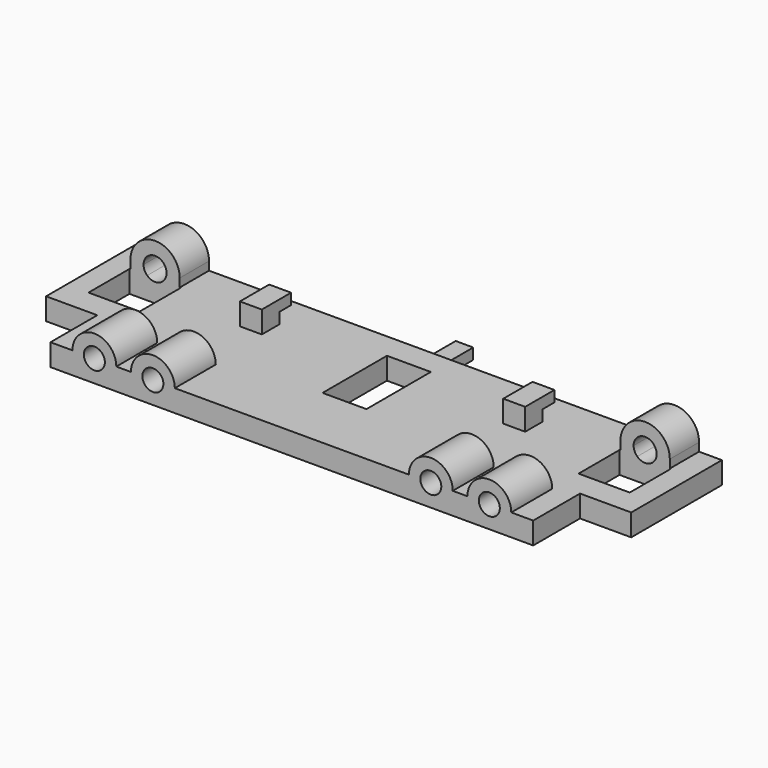
from build123d import *

# Parameters (mm, degrees)
F0_W      = 7
F0_H      = 7
F0_W_2    = 3
F0_H_2    = 5
F0_W_3    = 6
F0_H_3    = 11
F1_DEPTH  = 3
F2_DEPTH  = 6
F3_W      = 3
F3_H      = 1.5
F4_DEPTH  = 2
F5_W      = 3
F5_H      = 1.5
F6_DEPTH  = 2
F7_W      = 2.4
F7_H      = 1.5
F8_DEPTH  = 6
F10_DEPTH = 7
F11_R     = 1.435
F12_DEPTH = 4
F14_DEPTH = 5
F15_DEPTH = 5
F16_DEPTH = 5
F17_DEPTH = 5


with BuildPart() as f1:
    # F0 (on Top) → F1 (new body)
    with BuildSketch(Plane.XY):
        Polygon((40, 11.75), (-40, 11.75), (-40, -3.75), (-33, -3.75), (-33, -11.75), (33, -11.75), (33, -3.75), (40, -3.75), align=None)
        with Locations((-33.5, 3.25)):
            Rectangle(F0_W, F0_H, mode=Mode.SUBTRACT)
        with Locations((-18.002523, 6.25)):
            Rectangle(F0_W_2, F0_H_2, mode=Mode.SUBTRACT)
        with Locations((0, 2.75)):
            Rectangle(F0_W_3, F0_H_3, mode=Mode.SUBTRACT)
        with Locations((33.5, 3.25)):
            Rectangle(F0_W, F0_H, mode=Mode.SUBTRACT)
        with Locations((18.002523, 6.25)):
            Rectangle(F0_W_2, F0_H_2, mode=Mode.SUBTRACT)
    extrude(amount=F1_DEPTH)

    # F0 (on Top) → F2 (join)
    with BuildSketch(Plane.XY):
        with Locations((-18.002523, 6.25)):
            Rectangle(F0_W_2, F0_H_2)
        with Locations((18.002523, 6.25)):
            Rectangle(F0_W_2, F0_H_2)
    extrude(amount=F2_DEPTH)

    # F3 (on face) → F4 (cut)
    with BuildSketch(Plane(origin=(0, 8.75, 0), x_dir=(-1, 0, 0), z_dir=(0, 1, 0))):
        with Locations((-18.002523, 3.75)):
            Rectangle(F3_W, F3_H)
    extrude(amount=-F4_DEPTH, mode=Mode.SUBTRACT)

    # F5 (on face) → F6 (cut)
    with BuildSketch(Plane(origin=(0, 8.75, 0), x_dir=(-1, 0, 0), z_dir=(0, 1, 0))):
        with Locations((18.002523, 3.75)):
            Rectangle(F5_W, F5_H)
    extrude(amount=-F6_DEPTH, mode=Mode.SUBTRACT)

    # F7 (on face) → F8 (join)
    with BuildSketch(Plane(origin=(0, 11.75, 0), x_dir=(-1, 0, 0), z_dir=(0, 1, 0))):
        with Locations((0, 0.75)):
            Rectangle(F7_W, F7_H)
    extrude(amount=F8_DEPTH)

    # F9 (on face) → F10 (join)
    with BuildSketch(Plane.XZ.offset(11.75)):
        with BuildLine():
            Line((-30, 3), (-24, 3))
            ThreePointArc((-24, 3), (-27, 6), (-30, 3))
        make_face()
        with BuildLine():
            ThreePointArc((-16, 3), (-19, 6), (-22, 3))
            Line((-22, 3), (-16, 3))
        make_face()
        with BuildLine():
            ThreePointArc((22, 3), (19, 6), (16, 3))
            Line((16, 3), (22, 3))
        make_face()
        with BuildLine():
            ThreePointArc((30, 3), (27, 6), (24, 3))
            Line((24, 3), (30, 3))
        make_face()
    extrude(amount=-F10_DEPTH)

    # F11 (on face) → F12 (cut)
    with BuildSketch(Plane.XZ.offset(11.75)):
        with Locations((-27, 3)):
            Circle(F11_R)
        with Locations((-19, 3)):
            Circle(F11_R)
        with Locations((19, 3)):
            Circle(F11_R)
        with Locations((27, 3)):
            Circle(F11_R)
    extrude(amount=-F12_DEPTH, mode=Mode.SUBTRACT)

    # F13 (on face) → F14 (join)
    with BuildSketch(Plane(origin=(0, 11.75, 0), x_dir=(-1, 0, 0), z_dir=(0, 1, 0))):
        with BuildLine():
            Line((-30.125, 3), (-30.125, 4.15))
            ThreePointArc((-30.125, 4.15), (-33.508255, 7.52499), (-36.87496, 4.133489))
            Line((-36.87496, 4.133489), (-36.87496, 3))
            Line((-36.87496, 3), (-34.576162, 3))
            ThreePointArc((-34.576162, 3), (-34.126765, 5.594919), (-31.925, 4.15))
            ThreePointArc((-31.925, 4.15), (-32.055081, 3.523235), (-32.423838, 3))
            Line((-32.423838, 3), (-30.125, 3))
        make_face()
        with BuildLine():
            Line((-34.576162, 3), (-32.423838, 3))
            ThreePointArc((-32.423838, 3), (-32.055081, 3.523235), (-31.925, 4.15))
            ThreePointArc((-31.925, 4.15), (-34.126765, 5.594919), (-34.576162, 3))
        make_face()
    extrude(amount=-F14_DEPTH)

    # F13 (on face) → F15 (cut, through all)
    with BuildSketch(Plane(origin=(0, 11.75, 0), x_dir=(-1, 0, 0), z_dir=(0, 1, 0))):
        with BuildLine():
            Line((-34.576162, 3), (-32.423838, 3))
            ThreePointArc((-32.423838, 3), (-32.055081, 3.523235), (-31.925, 4.15))
            ThreePointArc((-31.925, 4.15), (-34.126765, 5.594919), (-34.576162, 3))
        make_face()
        with BuildLine():
            ThreePointArc((-34.576162, 3), (-33.5, 2.575), (-32.423838, 3))
            Line((-32.423838, 3), (-34.576162, 3))
        make_face()
    extrude(amount=-F15_DEPTH, mode=Mode.SUBTRACT)

    # F13 (on face) → F16 (join)
    with BuildSketch(Plane(origin=(0, 11.75, 0), x_dir=(-1, 0, 0), z_dir=(0, 1, 0))):
        with BuildLine():
            Line((30.125, 4.15), (30.125, 3))
            Line((30.125, 3), (32.423838, 3))
            ThreePointArc((32.423838, 3), (32.873235, 5.594919), (35.075, 4.15))
            ThreePointArc((35.075, 4.15), (34.944919, 3.523235), (34.576162, 3))
            Line((34.576162, 3), (36.87496, 3))
            Line((36.87496, 3), (36.87496, 4.133489))
            ThreePointArc((36.87496, 4.133489), (33.508255, 7.52499), (30.125, 4.15))
        make_face()
        with BuildLine():
            Line((34.576162, 3), (32.423838, 3))
            ThreePointArc((32.423838, 3), (33.5, 2.575), (34.576162, 3))
        make_face()
        with BuildLine():
            ThreePointArc((35.075, 4.15), (32.873235, 5.594919), (32.423838, 3))
            Line((32.423838, 3), (34.576162, 3))
            ThreePointArc((34.576162, 3), (34.944919, 3.523235), (35.075, 4.15))
        make_face()
    extrude(amount=-F16_DEPTH)

    # F13 (on face) → F17 (cut, through all)
    with BuildSketch(Plane(origin=(0, 11.75, 0), x_dir=(-1, 0, 0), z_dir=(0, 1, 0))):
        with BuildLine():
            ThreePointArc((35.075, 4.15), (32.873235, 5.594919), (32.423838, 3))
            Line((32.423838, 3), (34.576162, 3))
            ThreePointArc((34.576162, 3), (34.944919, 3.523235), (35.075, 4.15))
        make_face()
        with BuildLine():
            Line((34.576162, 3), (32.423838, 3))
            ThreePointArc((32.423838, 3), (33.5, 2.575), (34.576162, 3))
        make_face()
    extrude(amount=-F17_DEPTH, mode=Mode.SUBTRACT)


solid = f1.part
